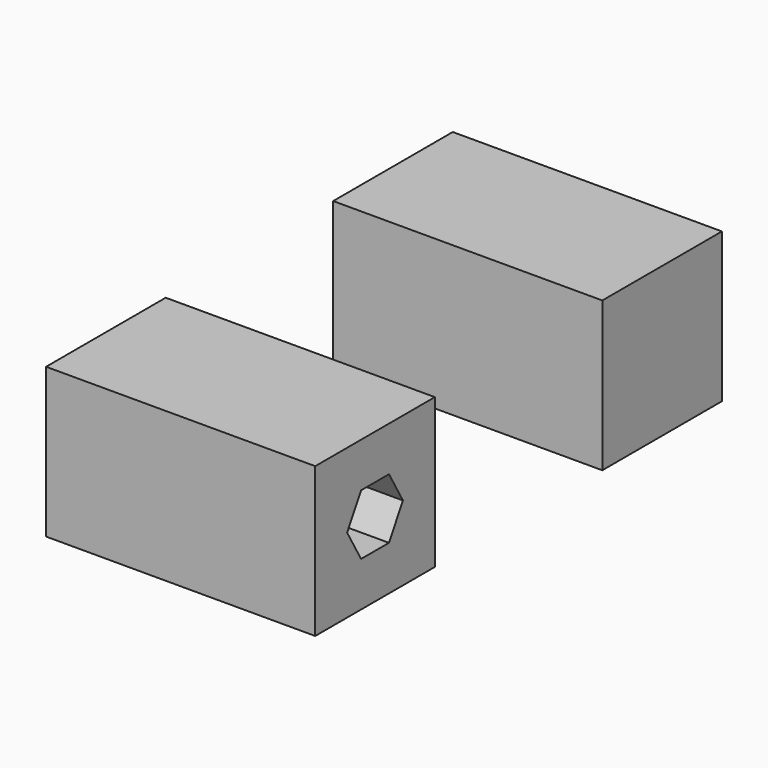
from build123d import *

# Parameters (mm, degrees)
F0_W     = 45
F0_H     = 25
F1_DEPTH = 25
F2_R     = 5.1
F3_DEPTH = 25
F8_DEPTH = 6.8


with BuildPart() as f1:
    # F0 (on Top) → F1 (new body)
    with BuildSketch(Plane.XY):
        with Locations((12.4448985606, -10.4952260852)):
            Rectangle(F0_W, F0_H)
    extrude(amount=F1_DEPTH)

    # F2 (on face) → F3 (cut)
    with BuildSketch(Plane(origin=(-10.0551014394, 0, 0), x_dir=(0, -1, 0), z_dir=(-1, 0, 0))):
        with Locations((10.4952260852, 12.5)):
            Circle(F2_R)
    extrude(amount=-F3_DEPTH, mode=Mode.SUBTRACT)


with BuildPart() as f4_1:
    # F4: copy of F1
    add(f1.part.moved(Location((0, 72, 0))))


with BuildPart() as f7_1:
    # F7: copy of F1
    add(f1.part.moved(Location((0, 60, 0))))


with BuildPart() as f1_1:
    add(f1.part)

    # F5 (on face) → F8 (cut)
    with BuildSketch(Plane.YZ.offset(34.9448985606)):
        Polygon((-4.6642260852, 12.5), (-7.5797260852, 17.5497941295), (-13.4107260852, 17.5497941295), (-16.3262260852, 12.5), (-13.4107260852, 7.4502058705), (-7.5797260852, 7.4502058705), align=None)
    extrude(amount=-F8_DEPTH, mode=Mode.SUBTRACT)


with BuildPart() as f9_1:
    # F9: copy of F7_1
    add(f7_1.part)


solid = Compound([f7_1.part, f1_1.part, f9_1.part])
